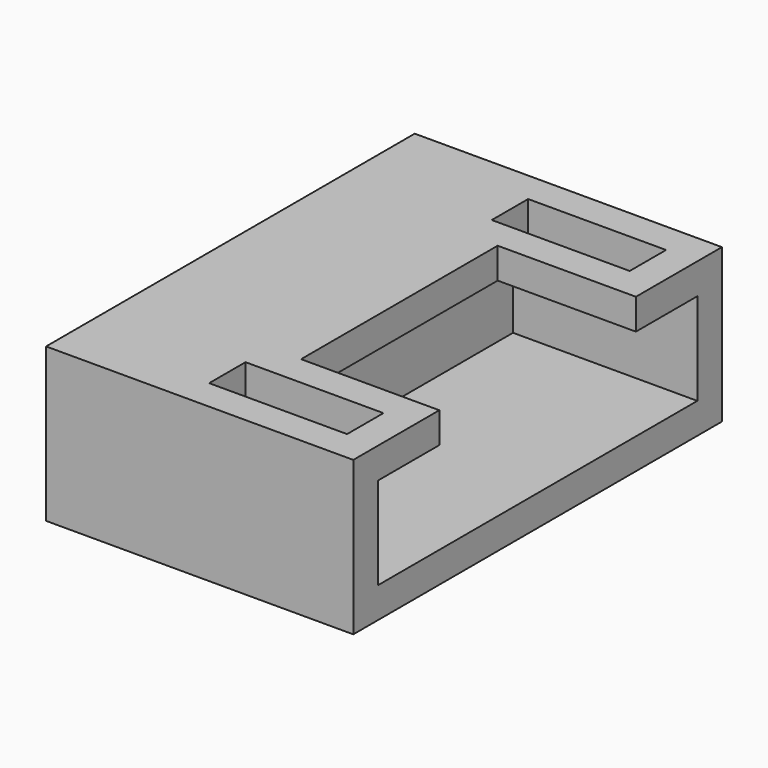
from build123d import *

# Parameters (mm, degrees)
SKETCH083_W     = 15
SKETCH083_H     = 5
PAD031_DEPTH    = 10
SKETCH076_W     = 13
SKETCH076_H     = 3
POCKET023_DEPTH = 6
SKETCH077_W     = 8
SKETCH077_H     = 1
POCKET030_DEPTH = 4.5
SKETCH073_W     = 1.48
SKETCH073_H     = 4.49
POCKET032_DEPTH = 2


with BuildPart() as part:
    # Sketch083 → Pad031 (new body)
    with BuildSketch(Plane.YZ):
        with Locations((0, 2.5)):
            Rectangle(SKETCH083_W, SKETCH083_H)
    extrude(amount=PAD031_DEPTH)

    # Sketch076 (on Face6 of Pad031) → Pocket023 (cut)
    with BuildSketch(Plane.YZ.offset(10)):
        with Locations((0, 2.5)):
            Rectangle(SKETCH076_W, SKETCH076_H)
    extrude(amount=-POCKET023_DEPTH, mode=Mode.SUBTRACT)

    # Sketch077 (on Face5 of Pocket023) → Pocket030 (cut)
    with BuildSketch(Plane.YZ.offset(10)):
        with Locations((0, 4.5)):
            Rectangle(SKETCH077_W, SKETCH077_H)
    extrude(amount=-POCKET030_DEPTH, mode=Mode.SUBTRACT)

    # Sketch073 (on Face6 of Pocket030) → Pocket032 (cut)
    with BuildSketch(Plane(origin=(0, 0, 5), x_dir=(0, -1, 0), z_dir=(0, 0, 1))):
        with Locations((-5.75, 6.745)):
            Rectangle(SKETCH073_W, SKETCH073_H)
        with Locations((5.75, 6.745)):
            Rectangle(SKETCH073_W, SKETCH073_H)
    extrude(amount=-POCKET032_DEPTH, mode=Mode.SUBTRACT)


solid = part.part
